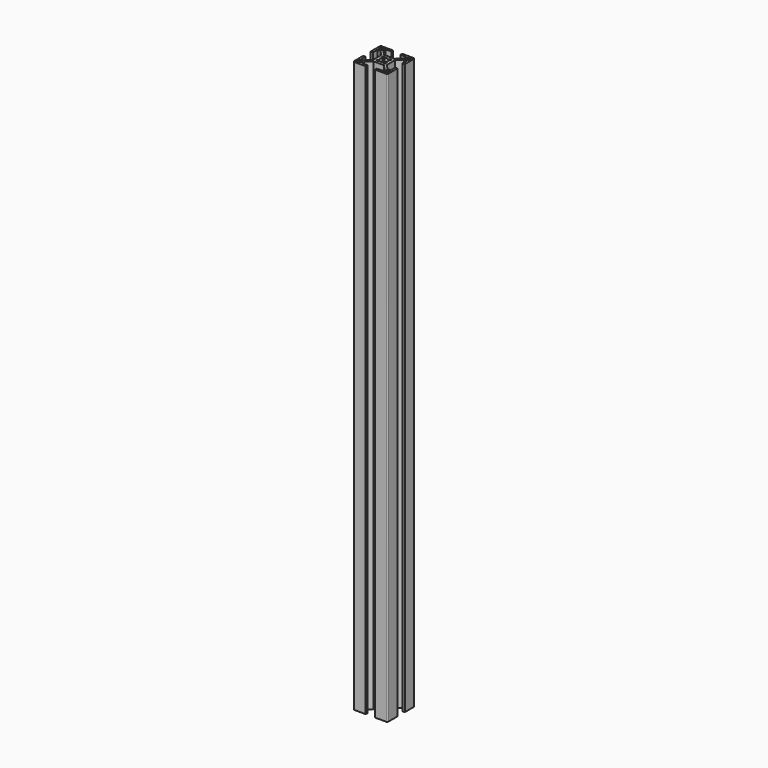
from build123d import *

# Parameters (mm, degrees)
F0_W     = 3
F0_H     = 3
F1_DEPTH = 500
F2_R     = 1


with BuildPart() as f1:
    # F0 (on Top) → F1 (new body)
    with BuildSketch(Plane.XY):
        Polygon((0, 11), (0, 0), (11, 0), (11, 2), (6, 2), (6, 4.585786), (10.414214, 9), (15, 9), (19.585786, 9), (24, 4.585786), (24, 2), (19, 2), (19, 0), (30, 0), (30, 11), (28, 11), (28, 6), (25.414214, 6), (21, 10.414214), (21, 15), (21, 19.585786), (25.414214, 24), (28, 24), (28, 19), (30, 19), (30, 30), (19, 30), (19, 28), (24, 28), (24, 25.414214), (19.585786, 21), (15, 21), (10.414214, 21), (6, 25.414214), (6, 28), (11, 28), (11, 30), (0, 30), (0, 19), (2, 19), (2, 24), (4.585786, 24), (9, 19.585786), (9, 15), (9, 10.414214), (4.585786, 6), (2, 6), (2, 11), align=None)
        with Locations((3, 3)):
            Rectangle(F0_W, F0_H, mode=Mode.SUBTRACT)
        with Locations((27, 3)):
            Rectangle(F0_W, F0_H, mode=Mode.SUBTRACT)
        with Locations((3, 27)):
            Rectangle(F0_W, F0_H, mode=Mode.SUBTRACT)
        with BuildLine():
            ThreePointArc((15, 11.6), (14.055522, 11.733815), (13.185389, 12.124729))
            Line((13.185389, 12.124729), (11.994796, 10.934136))
            Line((11.994796, 10.934136), (11.464466, 11.464466))
            Line((11.464466, 11.464466), (10.934136, 11.994796))
            Line((10.934136, 11.994796), (12.124729, 13.185389))
            ThreePointArc((12.124729, 13.185389), (11.733815, 14.055522), (11.6, 15))
            ThreePointArc((11.6, 15), (11.733815, 15.944478), (12.124729, 16.814611))
            Line((12.124729, 16.814611), (10.934136, 18.005204))
            Line((10.934136, 18.005204), (11.464466, 18.535534))
            Line((11.464466, 18.535534), (11.994796, 19.065864))
            Line((11.994796, 19.065864), (13.185389, 17.875271))
            ThreePointArc((13.185389, 17.875271), (14.055522, 18.266185), (15, 18.4))
            ThreePointArc((15, 18.4), (15.944478, 18.266185), (16.814611, 17.875271))
            Line((16.814611, 17.875271), (18.005204, 19.065864))
            Line((18.005204, 19.065864), (18.535534, 18.535534))
            Line((18.535534, 18.535534), (19.065864, 18.005204))
            Line((19.065864, 18.005204), (17.875271, 16.814611))
            ThreePointArc((17.875271, 16.814611), (18.266185, 15.944478), (18.4, 15))
            ThreePointArc((18.4, 15), (18.266185, 14.055522), (17.875271, 13.185389))
            Line((17.875271, 13.185389), (19.065864, 11.994796))
            Line((19.065864, 11.994796), (18.535534, 11.464466))
            Line((18.535534, 11.464466), (18.005204, 10.934136))
            Line((18.005204, 10.934136), (16.814611, 12.124729))
            ThreePointArc((16.814611, 12.124729), (15.944478, 11.733815), (15, 11.6))
        make_face(mode=Mode.SUBTRACT)
        with Locations((27, 27)):
            Rectangle(F0_W, F0_H, mode=Mode.SUBTRACT)
    extrude(amount=F1_DEPTH)

    # F2
    f2_edges = [f1.edges().sort_by_distance(p)[0] for p in [
        (0, 30, 250),
        (30, 30, 250),
        (30, 0, 250),
        (0, 0, 250),
    ]]
    fillet(f2_edges, radius=F2_R)


solid = f1.part
